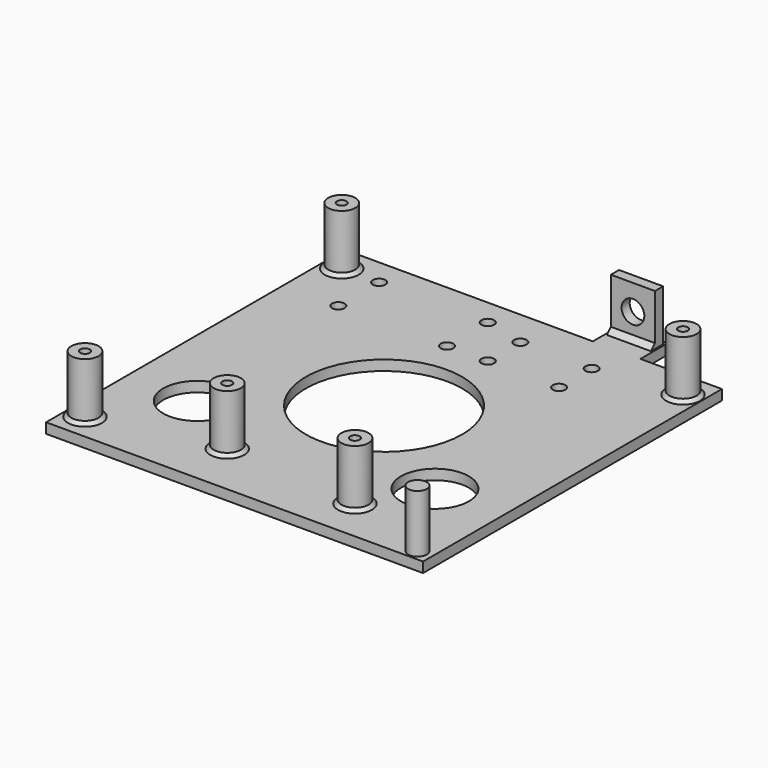
from build123d import *

# Parameters (mm, degrees)
SKETCH001_R                          = 4
SKETCH001_R_2                        = 1.4
SKETCH001_R_3                        = 2.75
EXTRUDE001_DEPTH                     = 20
SKETCH002_AS_DRAWN_W                 = 13
SKETCH002_AS_DRAWN_H                 = 15
SKETCH002_AS_DRAWN_R                 = 3.35
EXTRUDE002_DEPTH                     = 3
EXTRUDE002_ONTO_SKETCH002_ROLL_ANGLE = 90
SKETCH_R                             = 1.9
SKETCH_R_2                           = 10
SKETCH_R_3                           = 23
SKETCH_R_4                           = 1.85
EXTRUDE_DEPTH                        = 3
CHAMFER_1_SIZE                       = 1.5
CHAMFER_2_SIZE                       = 1


with BuildPart() as extrude001:
    # Sketch001 → Extrude001 (new body)
    with BuildSketch(Plane.XY):
        with Locations((-50.25, -47.25)):
            Circle(SKETCH001_R)
        with Locations((-50.25, -47.25)):
            Circle(SKETCH001_R_2, mode=Mode.SUBTRACT)
        with Locations((50.25, 47.25)):
            Circle(SKETCH001_R)
        with Locations((50.25, 47.25)):
            Circle(SKETCH001_R_2, mode=Mode.SUBTRACT)
        with Locations((-50.25, 47.25)):
            Circle(SKETCH001_R)
        with Locations((-50.25, 47.25)):
            Circle(SKETCH001_R_2, mode=Mode.SUBTRACT)
        with Locations((25.25, -42.25)):
            Circle(SKETCH001_R)
        with Locations((25.25, -42.25)):
            Circle(SKETCH001_R_2, mode=Mode.SUBTRACT)
        with Locations((51.25, -51.75)):
            Circle(SKETCH001_R_3)
        with Locations((-14.75, -39.25)):
            Circle(SKETCH001_R)
        with Locations((-14.75, -39.25)):
            Circle(SKETCH001_R_2, mode=Mode.SUBTRACT)
    extrude(amount=EXTRUDE001_DEPTH)


with BuildPart() as extrude002:
    # Sketch002 as drawn → Extrude002 (new)
    with BuildSketch(Plane.XY):
        with Locations((36.5, 7.5)):
            Rectangle(SKETCH002_AS_DRAWN_W, SKETCH002_AS_DRAWN_H)
        with Locations((36.5, 7.5)):
            Circle(SKETCH002_AS_DRAWN_R, mode=Mode.SUBTRACT)
    extrude(amount=-EXTRUDE002_DEPTH)


with BuildPart() as extrude002_1:
    # Extrude002 onto Sketch002 roll: moved
    add(extrude002.part.rotate(Axis((0, 0, 0), (1, 0, 0)), EXTRUDE002_ONTO_SKETCH002_ROLL_ANGLE))


with BuildPart() as extrude002_2:
    # Extrude002 onto Sketch002 placement: moved
    add(extrude002_1.part)


with BuildPart() as extrude002_3:
    # Extrude002 placement: moved
    add(extrude002_2.part.moved(Location((-12, 61, 3))))


with BuildPart() as chamfer_body:
    # Sketch → Extrude (new body)
    with BuildSketch(Plane.XY):
        Polygon((55.5, 55), (55.5, -55), (-55.5, -55), (-55.5, 55), (17.5, 55), (17.5, 65), (31.5, 65), (31.5, 55), align=None)
        with Locations((-50.25, -47.25)):
            Circle(SKETCH_R, mode=Mode.SUBTRACT)
        with Locations((35, -25)):
            Circle(SKETCH_R_2, mode=Mode.SUBTRACT)
        with Locations((-35, -25)):
            Circle(SKETCH_R_2, mode=Mode.SUBTRACT)
        Circle(SKETCH_R_3, mode=Mode.SUBTRACT)
        with Locations((-39.25, 47.25)):
            Circle(SKETCH_R_4, mode=Mode.SUBTRACT)
        with Locations((-7.25, 47.25)):
            Circle(SKETCH_R_4, mode=Mode.SUBTRACT)
        with Locations((-39.25, 32.25)):
            Circle(SKETCH_R_4, mode=Mode.SUBTRACT)
        with Locations((-7.25, 32.25)):
            Circle(SKETCH_R_4, mode=Mode.SUBTRACT)
        with Locations((4.75, 44.25)):
            Circle(SKETCH_R_4, mode=Mode.SUBTRACT)
        with Locations((25.75, 44.25)):
            Circle(SKETCH_R_4, mode=Mode.SUBTRACT)
        with Locations((4.75, 32.25)):
            Circle(SKETCH_R_4, mode=Mode.SUBTRACT)
        with Locations((25.75, 32.25)):
            Circle(SKETCH_R_4, mode=Mode.SUBTRACT)
        with Locations((50.25, 47.25)):
            Circle(SKETCH_R, mode=Mode.SUBTRACT)
        with Locations((-50.25, 47.25)):
            Circle(SKETCH_R, mode=Mode.SUBTRACT)
        with Locations((25.25, -42.25)):
            Circle(SKETCH_R, mode=Mode.SUBTRACT)
        with Locations((-14.75, -39.25)):
            Circle(SKETCH_R, mode=Mode.SUBTRACT)
    extrude(amount=EXTRUDE_DEPTH)

    # Fusion: union Extrude001, Extrude002
    add(extrude001.part)
    add(extrude002_3.part)

    # Chamfer 1
    chamfer_1_edges = [chamfer_body.edges().sort_by_distance(p)[0] for p in [
        (24.5, 61, 3),
    ]]
    chamfer(chamfer_1_edges, length=CHAMFER_1_SIZE)

    # Chamfer 2
    chamfer_2_edges = [chamfer_body.edges().sort_by_distance(p)[0] for p in [
        (46.25, 47.25, 3),
        (21.25, -42.25, 3),
        (-18.75, -39.25, 3),
        (-54.25, -47.25, 3),
        (-54.25, 47.25, 3),
    ]]
    chamfer(chamfer_2_edges, length=CHAMFER_2_SIZE)


solid = chamfer_body.part
